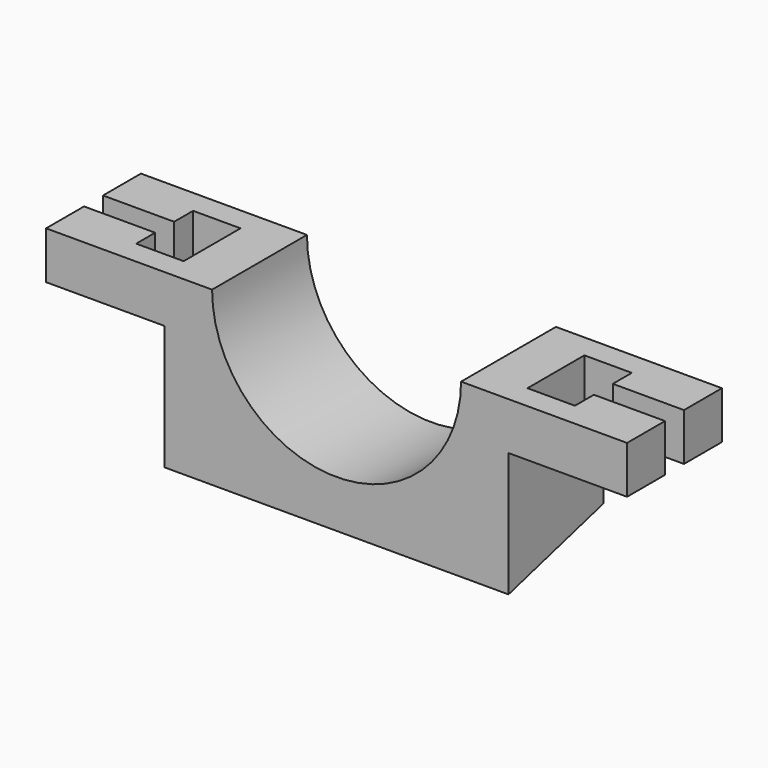
from build123d import *

# Parameters (mm, degrees)
F0_W     = 5
F0_H     = 2
F1_DEPTH = 2.5
F2_W     = 3
F2_H     = 1
F2_W_2   = 2
F3_DEPTH = 25
F5_DEPTH = 25


with BuildPart() as f1:
    # F0 (on Front) → F1 (new body, symmetric)
    with BuildSketch(Plane.XZ):
        with BuildLine():
            ThreePointArc((5.25, 0), (0, -5.25), (-5.25, 0))
            Line((-5.25, 0), (-7.25, 0))
            ThreePointArc((-7.25, 0), (-5.126524, -5.126524), (0, -7.25))
            ThreePointArc((0, -7.25), (5.126524, -5.126524), (7.25, 0))
            Line((7.25, 0), (5.25, 0))
        make_face()
        with BuildLine():
            ThreePointArc((0, -7.25), (-5.126524, -5.126524), (-7.25, 0))
            Line((-7.25, 0), (-7.25, -2))
            Line((-7.25, -2), (-7.25, -7.25))
            Line((-7.25, -7.25), (0, -7.25))
        make_face()
        with Locations((-9.75, -1)):
            Rectangle(F0_W, F0_H)
        with BuildLine():
            Line((7.25, -2), (7.25, 0))
            ThreePointArc((7.25, 0), (5.126524, -5.126524), (0, -7.25))
            Line((0, -7.25), (7.25, -7.25))
            Line((7.25, -7.25), (7.25, -2))
        make_face()
        with Locations((9.75, -1)):
            Rectangle(F0_W, F0_H)
    extrude(amount=F1_DEPTH, both=True)

    # F2 (on Top) → F3 (cut)
    with BuildSketch(Plane.XY):
        with Locations((-10.75, 0)):
            Rectangle(F2_W, F2_H)
        with Locations((-8.25, 1)):
            Rectangle(F2_W_2, F2_H)
        with Locations((-8.25, 0)):
            Rectangle(F2_W_2, F2_H)
        with Locations((-8.25, -1)):
            Rectangle(F2_W_2, F2_H)
        with Locations((10.75, 0)):
            Rectangle(F2_W, F2_H)
        with Locations((8.25, 1)):
            Rectangle(F2_W_2, F2_H)
        with Locations((8.25, 0)):
            Rectangle(F2_W_2, F2_H)
        with Locations((8.25, -1)):
            Rectangle(F2_W_2, F2_H)
    extrude(amount=-F3_DEPTH, mode=Mode.SUBTRACT)

    # F4 (on face) → F5 (cut)
    with BuildSketch(Plane.YZ.offset(7.25)):
        Polygon((2.5, -7.25), (2.5, -5.910254), (-2.5, -7.25), align=None)
    extrude(amount=-F5_DEPTH, mode=Mode.SUBTRACT)


solid = f1.part
